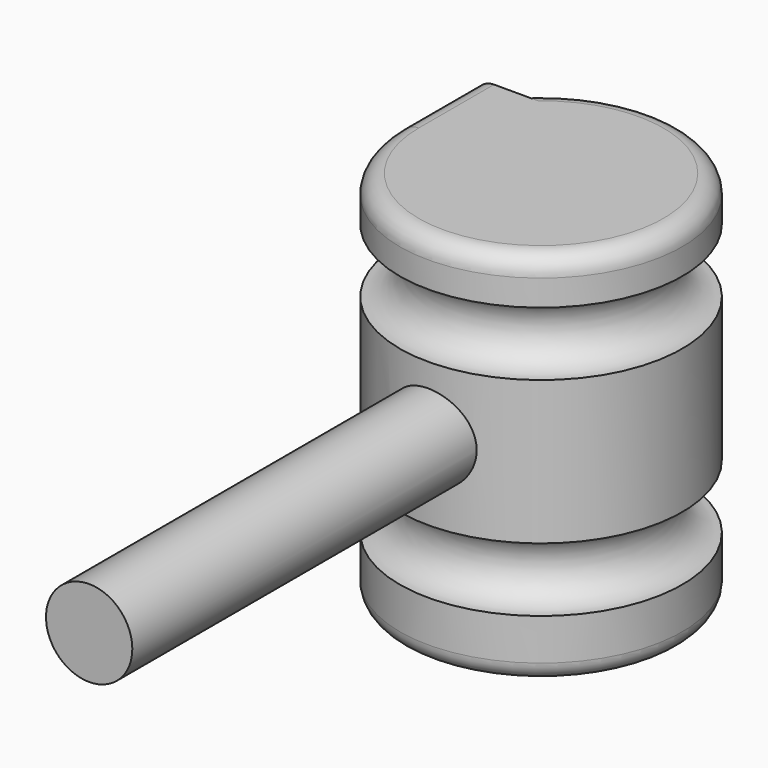
from build123d import *

# Parameters (mm, degrees)
F1_DEPTH = 25.4
F3_R     = 11.6440709306
F4_DEPTH = 177.8
F5_R     = 5.08


with BuildPart() as f1:
    # F0 (on Front) → F1 (new body)
    with BuildSketch(Plane.XZ):
        with BuildLine():
            Line((-38.1, 0), (0, 0))
            Line((0, 0), (0, 101.6))
            Line((0, 101.6), (-38.1, 101.6))
            Line((-38.1, 101.6), (-38.1, 89.5017794386))
            ThreePointArc((-38.1, 89.5017794386), (-29.5028533681, 80.9046328068), (-38.1, 72.3074861749))
            Line((-38.1, 72.3074861749), (-38.1, 33.5026137211))
            ThreePointArc((-38.1, 33.5026137211), (-29.4818803005, 24.8844940215), (-38.1, 16.266374322))
            Line((-38.1, 16.266374322), (-38.1, 0))
        make_face()
    extrude(amount=F1_DEPTH)

    # F1_face (on face) → F2 (revolve)
    with BuildSketch(Plane(origin=(-18.0649405822, -25.4, 50.6703599906), x_dir=(1, 0, 0), z_dir=(0, -1, 0))):
        with BuildLine():
            Line((-20.0350594178, -34.4039856686), (-20.0350594178, -50.6703599906))
            Line((-20.0350594178, -50.6703599906), (18.0649405822, -50.6703599906))
            Line((18.0649405822, -50.6703599906), (18.0649405822, 50.9296400094))
            Line((18.0649405822, 50.9296400094), (-20.0350594178, 50.9296400094))
            Line((-20.0350594178, 50.9296400094), (-20.0350594178, 38.831419448))
            ThreePointArc((-20.0350594178, 38.831419448), (-11.437912786, 30.2342728161), (-20.0350594178, 21.6371261843))
            Line((-20.0350594178, 21.6371261843), (-20.0350594178, -17.1677462696))
            ThreePointArc((-20.0350594178, -17.1677462696), (-11.4169397183, -25.7858659691), (-20.0350594178, -34.4039856686))
        make_face()
    revolve(axis=Axis((0, -25.4, 50.8), (0, 0, 1)))

    # F3 (on Front) → F4 (join)
    with BuildSketch(Plane.XZ):
        with Locations((0, 54.3571226299)):
            Circle(F3_R)
    extrude(amount=F4_DEPTH)

    # F5
    f5_edges = [f1.edges().sort_by_distance(p)[0] for p in [
        (35.591967, -38.994922, 101.6),
        (35.591967, -38.994922, 0),
    ]]
    fillet(f5_edges, radius=F5_R)


solid = f1.part
